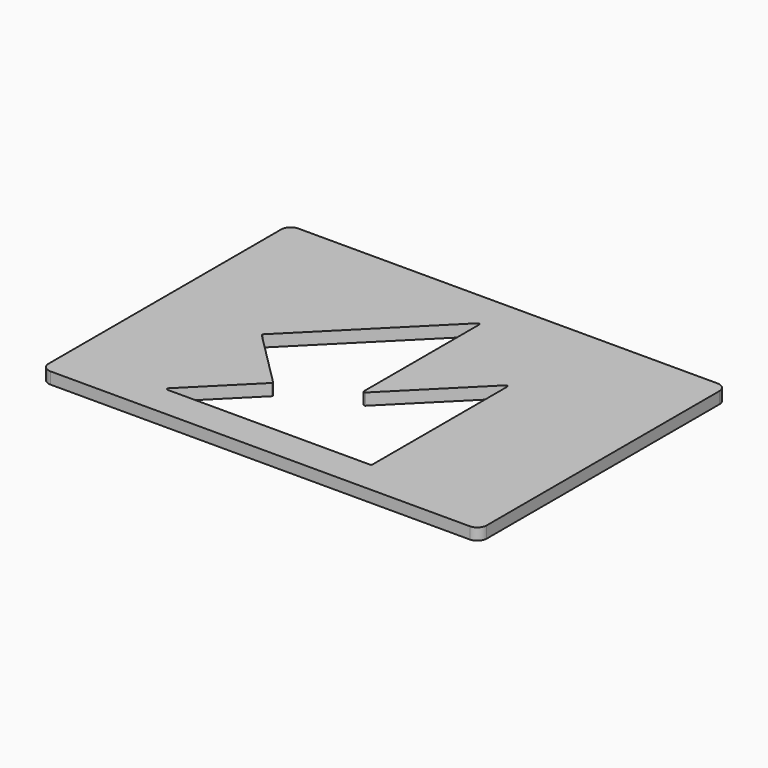
from build123d import *

# Parameters (mm, degrees)
F0_W     = 238.125
F0_H     = 168.275
F1_DEPTH = 6.35
F2_R     = 5.08
F4_DEPTH = 25.4
F6_DEPTH = 6.351


with BuildPart() as f1:
    # F0 (on Top) → F1 (new body)
    with BuildSketch(Plane.XY):
        Rectangle(F0_W, F0_H)
    extrude(amount=F1_DEPTH)

    # F2
    f2_edges = [f1.edges().sort_by_distance(p)[0] for p in [
        (119.0625, -84.1375, 3.175),
        (-119.0625, -84.1375, 3.175),
        (119.0625, 84.1375, 3.175),
        (-119.0625, 84.1375, 3.175),
    ]]
    fillet(f2_edges, radius=F2_R)

    # F3 (on face) → F4 (cut)
    with BuildSketch(Plane.XY.offset(6.35)):
        Polygon((-31.75, -33.3375), (-63.5, -65.0875), (44.958, -65.0875), (44.958, 24.8285), (0, -20.1295), (0, 61.9125), (-63.5, -1.5875), align=None)
    extrude(amount=-F4_DEPTH, mode=Mode.SUBTRACT)

    # F5 (on face) → F6 (cut, through all)
    with BuildSketch(Plane.XY.offset(6.35)):
        with BuildLine():
            ThreePointArc((46.228, 25.993599), (45.741925, 26.721062), (44.883824, 26.550375))
            Line((44.883824, 26.550375), (2.614176, -15.719273))
            ThreePointArc((2.614176, -15.719273), (1.756075, -15.88996), (1.27, -15.162497))
            Line((1.27, -15.162497), (1.27, 63.077599))
            ThreePointArc((1.27, 63.077599), (0.783925, 63.805062), (-0.074176, 63.634375))
            Line((-0.074176, 63.634375), (-64.739275, -1.030724))
            ThreePointArc((-64.739275, -1.030724), (-64.969899, -1.5875), (-64.739275, -2.144276))
            Line((-64.739275, -2.144276), (-34.102827, -32.780724))
            ThreePointArc((-34.102827, -32.780724), (-33.872203, -33.3375), (-34.102827, -33.894276))
            Line((-34.102827, -33.894276), (-65.221875, -65.013324))
            ThreePointArc((-65.221875, -65.013324), (-65.392562, -65.871425), (-64.665099, -66.3575))
            Line((-64.665099, -66.3575), (45.4406, -66.3575))
            ThreePointArc((45.4406, -66.3575), (45.997376, -66.126876), (46.228, -65.5701))
            Line((46.228, -65.5701), (46.228, 25.993599))
        make_face()
    extrude(amount=-F6_DEPTH, mode=Mode.SUBTRACT)


solid = f1.part
